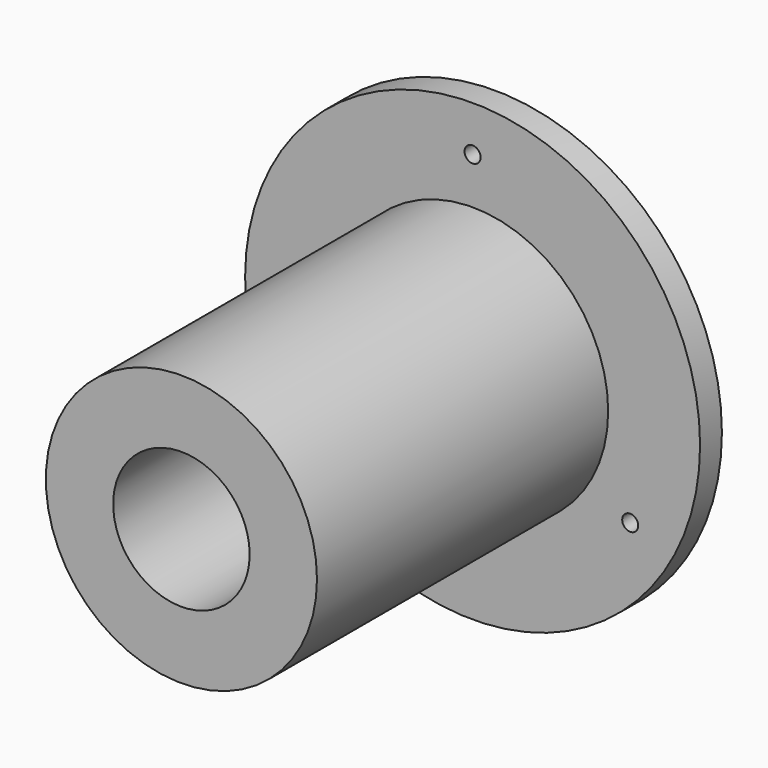
from build123d import *

# Parameters (mm, degrees)
F0_R     = 14.9
F0_R_2   = 7.5
F1_DEPTH = 40
F0_R_3   = 25
F0_R_4   = 0.88
F2_DEPTH = 3
F3_R     = 0.88
F4_DEPTH = 25


with BuildPart() as f1:
    # F0 (on Front) → F1 (new body)
    with BuildSketch(Plane.XZ):
        Circle(F0_R)
        Circle(F0_R_2, mode=Mode.SUBTRACT)
    extrude(amount=F1_DEPTH)

    # F0 (on Front) → F2 (join)
    with BuildSketch(Plane.XZ):
        Circle(F0_R_3)
        with Locations((-17.320508, -10)):
            Circle(F0_R_4, mode=Mode.SUBTRACT)
        with Locations((17.320508, -10)):
            Circle(F0_R_4, mode=Mode.SUBTRACT)
        Circle(F0_R, mode=Mode.SUBTRACT)
        with Locations((0, 20)):
            Circle(F0_R_4, mode=Mode.SUBTRACT)
        Circle(F0_R)
        Circle(F0_R_2, mode=Mode.SUBTRACT)
    extrude(amount=-F2_DEPTH)

    # F3 (on Top) → F4 (cut)
    with BuildSketch(Plane.XY):
        with Locations((0, -14.562329)):
            Circle(F3_R)
    extrude(amount=-F4_DEPTH, mode=Mode.SUBTRACT)


solid = f1.part
